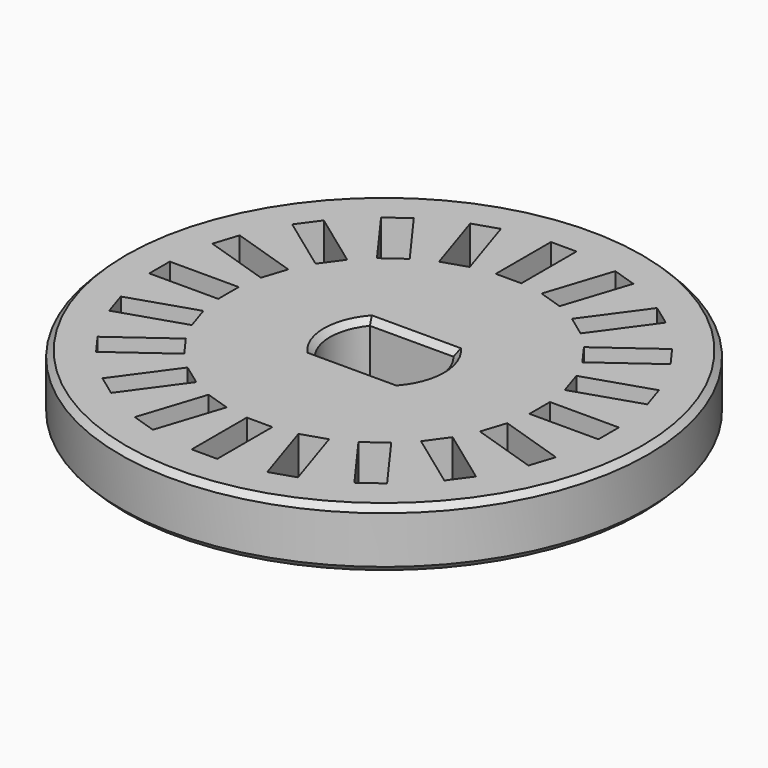
from build123d import *

# Parameters (mm, degrees)
SKETCH002_R        = 13.4
PAD_DEPTH          = 3
POCKET_DEPTH       = 3.001
SKETCH003_W        = 1.3
SKETCH003_H        = 3.5
POCKET001_DEPTH    = 79.039937
POLARPATTERN_COUNT = 20
CHAMFER_SIZE       = 0.3
CHAMFER001_SIZE    = 0.3


with BuildPart() as part:
    # Sketch002 → Pad (new body)
    with BuildSketch(Plane.XY):
        Circle(SKETCH002_R)
    extrude(amount=PAD_DEPTH)

    # Sketch → Pocket (cut, through all)
    with BuildSketch(Plane.XY.offset(3)):
        with BuildLine():
            Line((-2.12132, 1.75), (2.12132, 1.75))
            ThreePointArc((2.12132, -1.75), (2.75, 0), (2.12132, 1.75))
            Line((-2.12132, -1.75), (2.12132, -1.75))
            ThreePointArc((-2.12132, 1.75), (-2.75, 0), (-2.12132, -1.75))
        make_face()
    extrude(amount=-POCKET_DEPTH, mode=Mode.SUBTRACT)

    # Sketch003 → Pocket001 (cut, through all)
    with BuildSketch(Plane.XY.offset(3)):
        with Locations((0, 9.65)):
            Rectangle(SKETCH003_W, SKETCH003_H)
    pocket001 = extrude(amount=-POCKET001_DEPTH, mode=Mode.SUBTRACT)

    # PolarPattern: Pocket001 ×20 about axis
    polarpattern_axis = Axis((0, 0, 3), (0, 0, 1))
    for i in range(1, POLARPATTERN_COUNT):
        add(pocket001.rotate(polarpattern_axis, i * 360 / POLARPATTERN_COUNT), mode=Mode.SUBTRACT)

    # Chamfer
    chamfer_edges = [part.edges().sort_by_distance(p)[0] for p in [
        (0, 1.75, 0),
        (2.75, 0, 0),
        (0, -1.75, 0),
        (-2.75, 0, 0),
        (2.75, 0, 3),
        (0, 1.75, 3),
        (-2.75, 0, 3),
        (0, -1.75, 3),
    ]]
    chamfer(chamfer_edges, length=CHAMFER_SIZE)

    # Chamfer001
    chamfer001_edges = [part.edges().sort_by_distance(p)[0] for p in [
        (-13.4, 0, 0),
        (-13.4, 0, 3),
    ]]
    chamfer(chamfer001_edges, length=CHAMFER001_SIZE)


solid = part.part
